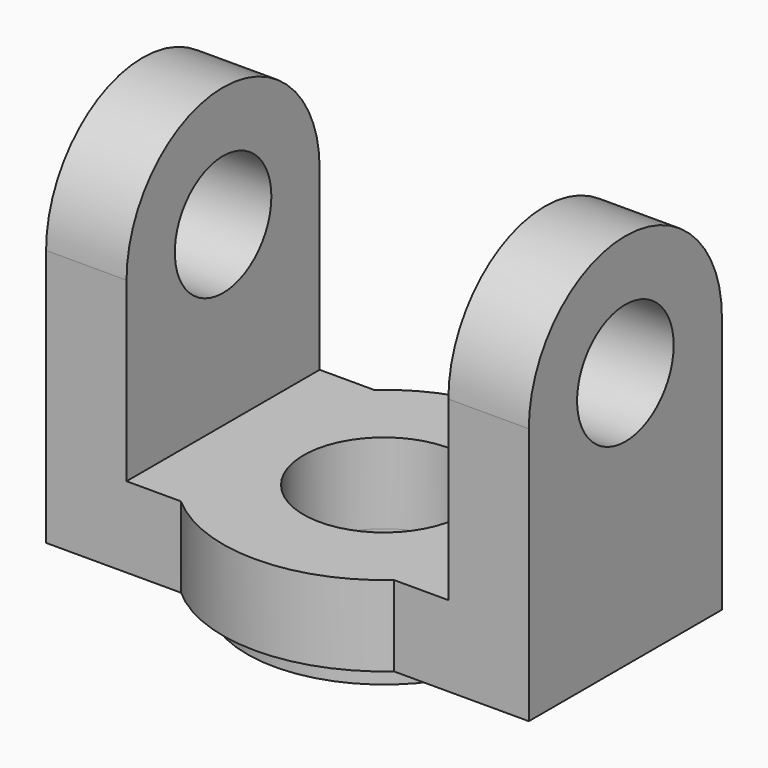
from build123d import *

# Parameters (mm, degrees)
F0_R     = 10
F1_DEPTH = 10
F2_DEPTH = 47.5
F3_R     = 7.5
F4_DEPTH = 60.001
F5_R     = 17
F5_R_2   = 10
F6_DEPTH = 3


with BuildPart() as f1:
    # F0 (on Top) → F1 (new body)
    with BuildSketch(Plane.XY):
        with BuildLine():
            ThreePointArc((13.2287565553, -15), (18.2287565553, -8.2287565553), (20, 0))
            ThreePointArc((20, 0), (18.2287565553, 8.2287565553), (13.2287565553, 15))
            ThreePointArc((13.2287565553, 15), (0, 20), (-13.2287565553, 15))
            ThreePointArc((-13.2287565553, 15), (-18.2287565565, 8.2287565528), (-20, -5.5e-09))
            ThreePointArc((-20, -5.5e-09), (-18.2287565542, -8.2287565578), (-13.2287565553, -15))
            ThreePointArc((-13.2287565553, -15), (0, -20), (13.2287565553, -15))
        make_face()
        Circle(F0_R, mode=Mode.SUBTRACT)
        with BuildLine():
            ThreePointArc((13.2287565553, 15), (18.2287565553, 8.2287565553), (20, 0))
            Line((20, 0), (20, 15))
            Line((20, 15), (13.2287565553, 15))
        make_face()
        with BuildLine():
            Line((20, -15), (20, 0))
            ThreePointArc((20, 0), (18.2287565553, -8.2287565553), (13.2287565553, -15))
            Line((13.2287565553, -15), (20, -15))
        make_face()
        with BuildLine():
            Line((-20, -15), (-13.2287565553, -15))
            ThreePointArc((-13.2287565553, -15), (-18.2287565542, -8.2287565578), (-20, -5.5e-09))
            Line((-20, -5.5e-09), (-20, -15))
        make_face()
        with BuildLine():
            ThreePointArc((-20, -5.5e-09), (-18.2287565565, 8.2287565528), (-13.2287565553, 15))
            Line((-13.2287565553, 15), (-20, 15))
            Line((-20, 15), (-20, -5.5e-09))
        make_face()
    extrude(amount=F1_DEPTH)

    # F0 (on Top) → F2 (join)
    with BuildSketch(Plane.XY):
        Polygon((20, 15), (20, 0), (20, -15), (30, -15), (30, 15), align=None)
        Polygon((-20, -15), (-20, -5.5e-09), (-20, 15), (-30, 15), (-30, -15), align=None)
    extrude(amount=F2_DEPTH)

    # F3 (on face) → F4 (cut, through all)
    with BuildSketch(Plane.YZ.offset(30)):
        with BuildLine():
            Line((15, 47.5), (-15, 47.5))
            Line((-15, 47.5), (-15, 32))
            ThreePointArc((-15, 32), (0, 47), (15, 32))
            Line((15, 32), (15, 47.5))
        make_face()
        with Locations((0, 32)):
            Circle(F3_R)
    extrude(amount=-F4_DEPTH, mode=Mode.SUBTRACT)

    # F5 (on face) → F6 (join)
    with BuildSketch(Plane.XY):
        Circle(F5_R)
        Circle(F5_R_2, mode=Mode.SUBTRACT)
    extrude(amount=-F6_DEPTH)


solid = f1.part
